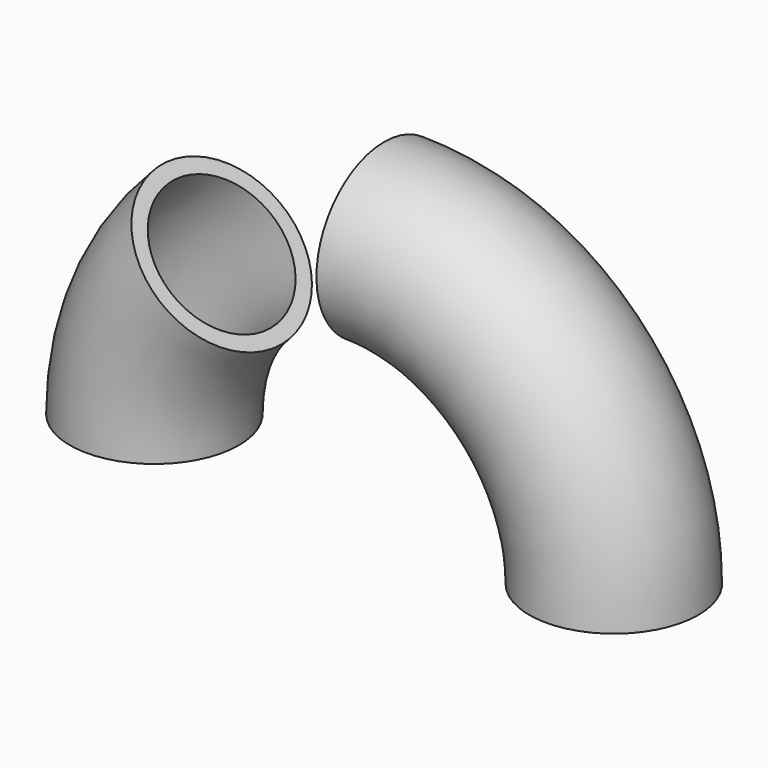
from build123d import *

# Parameters (mm, degrees)
F1_R   = 84.15
F1_R_2 = 68.91
F4_R   = 84.15
F4_R_2 = 68.91


with BuildPart() as f2:
    # F2: sweep along a path in F0
    with BuildLine(Plane.XZ) as f2_path:
        ThreePointArc((-228.6, 0), (-211.198861, 87.481433), (-161.64461, 161.64461))
    # F1 (on Top) → F2 (sweep)
    with BuildSketch(Plane.XY):
        with Locations((-228.6, 0)):
            Circle(F1_R)
        with Locations((-228.6, 0)):
            Circle(F1_R_2, mode=Mode.SUBTRACT)
    sweep(path=f2_path.line)


with BuildPart() as f5:
    # F5: sweep along a path in F3
    with BuildLine(Plane.XZ) as f5_path:
        ThreePointArc((228.6, 0), (161.64461, 161.64461), (0, 228.6))
    # F4 (on Top) → F5 (sweep)
    with BuildSketch(Plane.XY):
        with Locations((228.6, 0)):
            Circle(F4_R)
        with Locations((228.6, 0)):
            Circle(F4_R_2, mode=Mode.SUBTRACT)
    sweep(path=f5_path.line)


solid = Compound([f2.part, f5.part])
